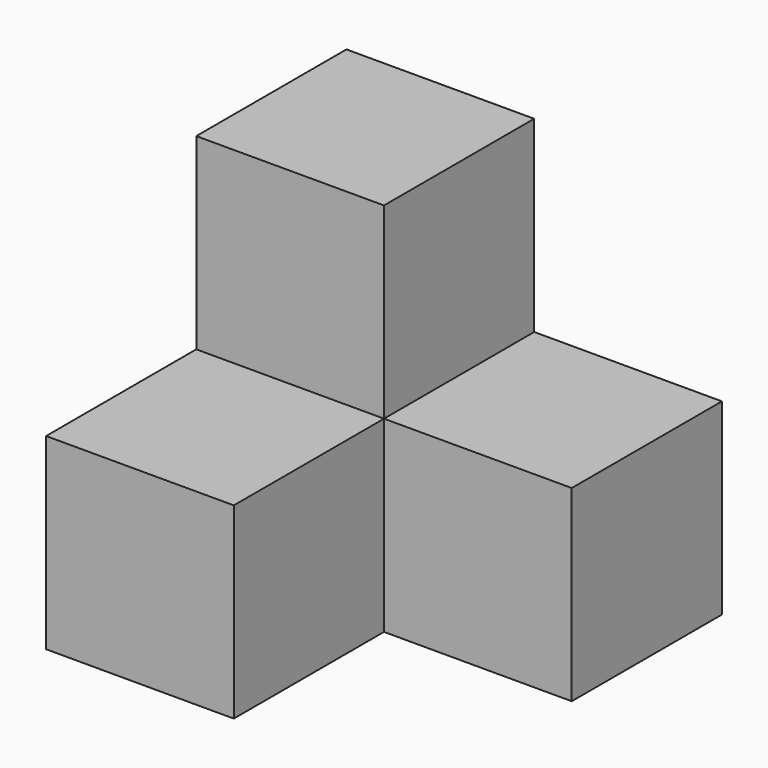
from build123d import *

# Parameters (mm, degrees)
BOX002_W     = 10
BOX002_H     = 10
BOX002_DEPTH = 10
BOX003_W     = 10
BOX003_H     = 10
BOX003_DEPTH = 10
BOX001_W     = 10
BOX001_H     = 10
BOX001_DEPTH = 10
BOX_W        = 10
BOX_H        = 10
BOX_DEPTH    = 10


with BuildPart() as obj1:
    # Box002 → Box002 (new body)
    with BuildSketch(Plane(origin=(0, -10, -10), x_dir=(1, 0, 0), z_dir=(0, 0, 1))):
        with Locations((5, 5)):
            Rectangle(BOX002_W, BOX002_H)
    extrude(amount=BOX002_DEPTH)


with BuildPart() as fusion001:
    # Box003 → Box003 (new body)
    with BuildSketch(Plane(origin=(10, 0, -10), x_dir=(1, 0, 0), z_dir=(0, 0, 1))):
        with Locations((5, 5)):
            Rectangle(BOX003_W, BOX003_H)
    extrude(amount=BOX003_DEPTH)

    # Fusion001: union obj1
    add(obj1.part)


with BuildPart() as obj2:
    # Box001 → Box001 (new body)
    with BuildSketch(Plane.XY.offset(-10)):
        with Locations((5, 5)):
            Rectangle(BOX001_W, BOX001_H)
    extrude(amount=BOX001_DEPTH)


with BuildPart() as fusion002:
    # Box → Box (new body)
    with BuildSketch(Plane.XY):
        with Locations((5, 5)):
            Rectangle(BOX_W, BOX_H)
    extrude(amount=BOX_DEPTH)

    # Fusion: union obj2
    add(obj2.part)

    # Fusion002: union Fusion001
    add(fusion001.part)


solid = fusion002.part
